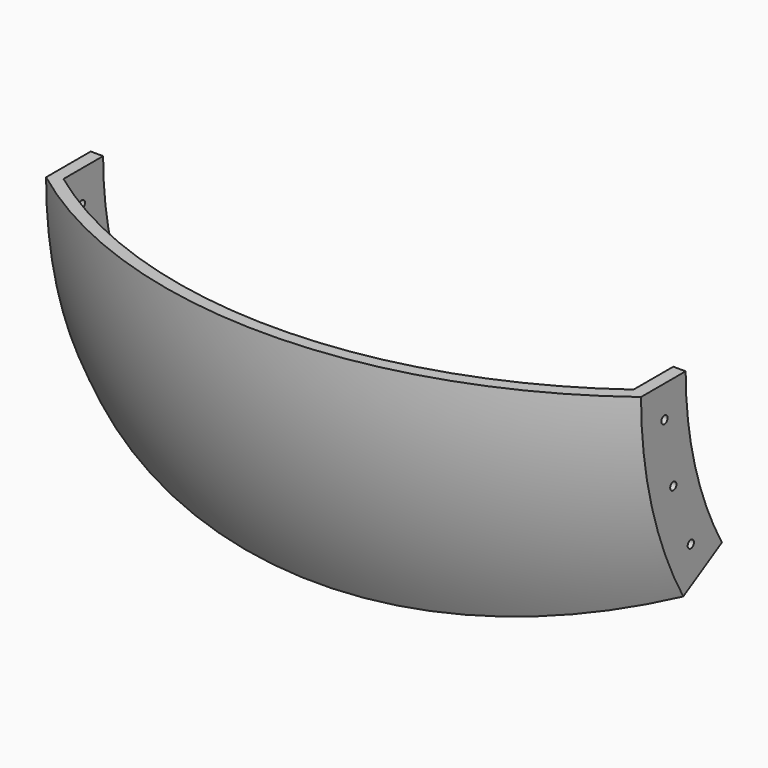
from build123d import *

# Parameters (mm, degrees)
F1_ANGLE = 30
F2_R     = 2
F3_DEPTH = 304.801


with BuildPart() as f1:
    # F0 (on Top) → F1 (revolve)
    with BuildSketch(Plane.XY):
        with BuildLine():
            Line((-152.4, -173.360207), (-152.4, -201.948607))
            ThreePointArc((-152.4, -201.948607), (0, -253), (152.4, -201.948607))
            Line((152.4, -201.948607), (152.4, -173.360207))
            Line((152.4, -173.360207), (146.05, -173.360207))
            Line((146.05, -173.360207), (146.05, -198.760207))
            ThreePointArc((146.05, -198.760207), (0, -246.65), (-146.05, -198.760207))
            Line((-146.05, -198.760207), (-146.05, -173.360207))
            Line((-146.05, -173.360207), (-152.4, -173.360207))
        make_face()
    revolve(axis=Axis((76.745674, 0, 0), (1, 0, 0)), revolution_arc=F1_ANGLE)

    # F2 (on face) → F3 (cut, through all)
    with BuildSketch(Plane.YZ.offset(152.4)):
        with Locations((-16.355159, 186.940326)):
            Circle(F2_R)
        with Locations((-48.568535, 181.260238)):
            Circle(F2_R)
        with Locations((-79.306179, 170.072651)):
            Circle(F2_R)
        with Locations((-107.634146, 153.717491)):
            Circle(F2_R)
        with Locations((-132.691704, 132.691704)):
            Circle(F2_R)
        with Locations((-153.717491, 107.634146)):
            Circle(F2_R)
        with Locations((-170.072651, 79.306179)):
            Circle(F2_R)
        with Locations((-181.260238, 48.568535)):
            Circle(F2_R)
        with Locations((-186.940326, 16.355159)):
            Circle(F2_R)
        with Locations((-186.940326, -16.355159)):
            Circle(F2_R)
        with Locations((-181.260238, -48.568535)):
            Circle(F2_R)
        with Locations((-170.072651, -79.306179)):
            Circle(F2_R)
        with Locations((-153.717491, -107.634146)):
            Circle(F2_R)
        with Locations((-132.691704, -132.691704)):
            Circle(F2_R)
        with Locations((-107.634146, -153.717491)):
            Circle(F2_R)
        with Locations((-79.306179, -170.072651)):
            Circle(F2_R)
        with Locations((-48.568535, -181.260238)):
            Circle(F2_R)
        with Locations((-16.355159, -186.940326)):
            Circle(F2_R)
        with Locations((16.355159, -186.940326)):
            Circle(F2_R)
        with Locations((48.568535, -181.260238)):
            Circle(F2_R)
        with Locations((79.306179, -170.072651)):
            Circle(F2_R)
        with Locations((107.634146, -153.717491)):
            Circle(F2_R)
        with Locations((132.691704, -132.691704)):
            Circle(F2_R)
        with Locations((153.717491, -107.634146)):
            Circle(F2_R)
        with Locations((170.072651, -79.306179)):
            Circle(F2_R)
        with Locations((181.260238, -48.568535)):
            Circle(F2_R)
        with Locations((186.940326, -16.355159)):
            Circle(F2_R)
        with Locations((186.940326, 16.355159)):
            Circle(F2_R)
        with Locations((181.260238, 48.568535)):
            Circle(F2_R)
        with Locations((170.072651, 79.306179)):
            Circle(F2_R)
        with Locations((153.717491, 107.634146)):
            Circle(F2_R)
        with Locations((132.691704, 132.691704)):
            Circle(F2_R)
        with Locations((107.634146, 153.717491)):
            Circle(F2_R)
        with Locations((79.306179, 170.072651)):
            Circle(F2_R)
        with Locations((48.568535, 181.260238)):
            Circle(F2_R)
        with Locations((16.355159, 186.940326)):
            Circle(F2_R)
    extrude(amount=-F3_DEPTH, mode=Mode.SUBTRACT)


solid = f1.part
